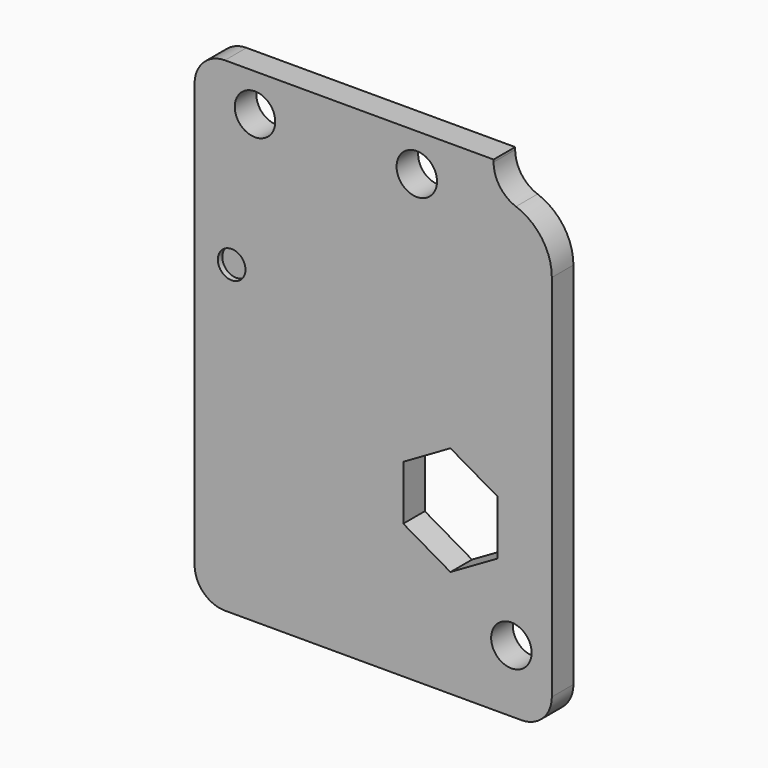
from build123d import *

# Parameters (mm, degrees)
F0_R     = 2.38125
F0_R_2   = 3.175
F1_DEPTH = 3.175
F3_DEPTH = 3.176
F4_R     = 1.627418
F5_DEPTH = 0.6604


with BuildPart() as f1:
    # F0 (on Front) → F1 (new body)
    with BuildSketch(Plane.XZ):
        with BuildLine():
            ThreePointArc((-30.1244, -15.477998), (-29.078185, -18.003785), (-26.552398, -19.05))
            Line((-26.552398, -19.05), (8.365998, -19.05))
            ThreePointArc((8.365998, -19.05), (10.891785, -18.003785), (11.938, -15.477998))
            Line((11.938, -15.477998), (11.938, 27.999858))
            ThreePointArc((11.938, 27.999858), (10.77674, 31.660388), (7.717692, 33.982074))
            ThreePointArc((7.717692, 33.982074), (5.805787, 35.433129), (5.08, 37.72096))
            Line((5.08, 37.72096), (5.08, 37.9984))
            Line((5.08, 37.9984), (-26.552398, 37.9984))
            ThreePointArc((-26.552398, 37.9984), (-29.078185, 36.952185), (-30.1244, 34.426398))
            Line((-30.1244, 34.426398), (-30.1244, -15.477998))
        make_face()
        with Locations((7.1755, -11.684)):
            Circle(F0_R, mode=Mode.SUBTRACT)
        Circle(F0_R_2, mode=Mode.SUBTRACT)
        with Locations((-23.0124, 33.5534)):
            Circle(F0_R, mode=Mode.SUBTRACT)
        with Locations((-3.9624, 33.5534)):
            Circle(F0_R, mode=Mode.SUBTRACT)
    extrude(amount=F1_DEPTH)

    # F2 (on face) → F3 (cut, through all)
    with BuildSketch(Plane.XZ.offset(3.175)):
        Polygon((0, 6.415805), (-5.55625, 3.207902), (-5.55625, -3.207902), (0, -6.415805), (5.55625, -3.207902), (5.55625, 3.207902), align=None)
    extrude(amount=-F3_DEPTH, mode=Mode.SUBTRACT)

    # F4 (on face) → F5 (cut)
    with BuildSketch(Plane.XZ.offset(3.175)):
        with Locations((-25.760997, 17.07097)):
            Circle(F4_R)
    extrude(amount=-F5_DEPTH, mode=Mode.SUBTRACT)


solid = f1.part
